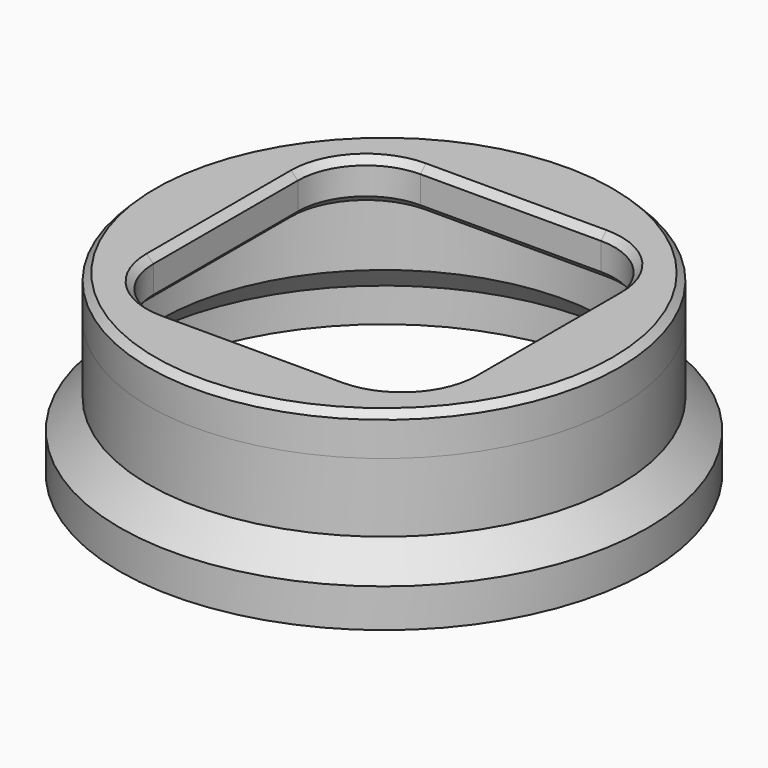
from build123d import *

# Parameters (mm, degrees)
SKETCH001_R  = 17.29
PAD_DEPTH    = 3
CHAMFER_SIZE = 0.5


with BuildPart() as part:
    # Sketch → Revolution (revolve)
    with BuildSketch(Plane.XZ):
        Polygon((-19.4, 0), (-19.4, 2.831371), (-17.29, 4.941371), (-17.29, 10), (-16.49, 10), (-16.49, 4.61), (-18.6, 2.5), (-18.6, 0), align=None)
    revolve(axis=Axis((0, 0, 0), (0, 0, 1)))

    # Sketch001 (on DatumPlane) → Pad (new body)
    with BuildSketch(Plane.XY.offset(10)):
        Circle(SKETCH001_R)
        with BuildLine():
            ThreePointArc((-6.631907, 11.631907), (-10.16744, 10.16744), (-11.631907, 6.631907))
            Line((-11.631907, -6.631907), (-11.631907, 6.631907))
            ThreePointArc((-11.631907, -6.631907), (-10.16744, -10.16744), (-6.631907, -11.631907))
            Line((6.631907, -11.631907), (-6.631907, -11.631907))
            ThreePointArc((6.631907, -11.631907), (10.16744, -10.16744), (11.631907, -6.631907))
            Line((11.631907, 6.631907), (11.631907, -6.631907))
            ThreePointArc((11.631907, 6.631907), (10.16744, 10.16744), (6.631907, 11.631907))
            Line((-6.631907, 11.631907), (6.631907, 11.631907))
        make_face(mode=Mode.SUBTRACT)
    extrude(amount=PAD_DEPTH)

    # Chamfer
    chamfer_edges = [part.edges().sort_by_distance(p)[0] for p in [
        (0, -11.631907, 10),
        (10.16744, -10.16744, 10),
        (-10.16744, -10.16744, 10),
        (-11.631907, 0, 10),
        (11.631907, 0, 10),
        (10.16744, 10.16744, 10),
        (0, 11.631907, 10),
        (-10.16744, 10.16744, 10),
        (0, -11.631907, 13),
        (10.16744, -10.16744, 13),
        (11.631907, 0, 13),
        (10.16744, 10.16744, 13),
        (0, 11.631907, 13),
        (-10.16744, 10.16744, 13),
        (-11.631907, 0, 13),
        (-10.16744, -10.16744, 13),
        (0, 17.29, 13),
        (0, -17.29, 13),
    ]]
    chamfer(chamfer_edges, length=CHAMFER_SIZE)


solid = part.part
